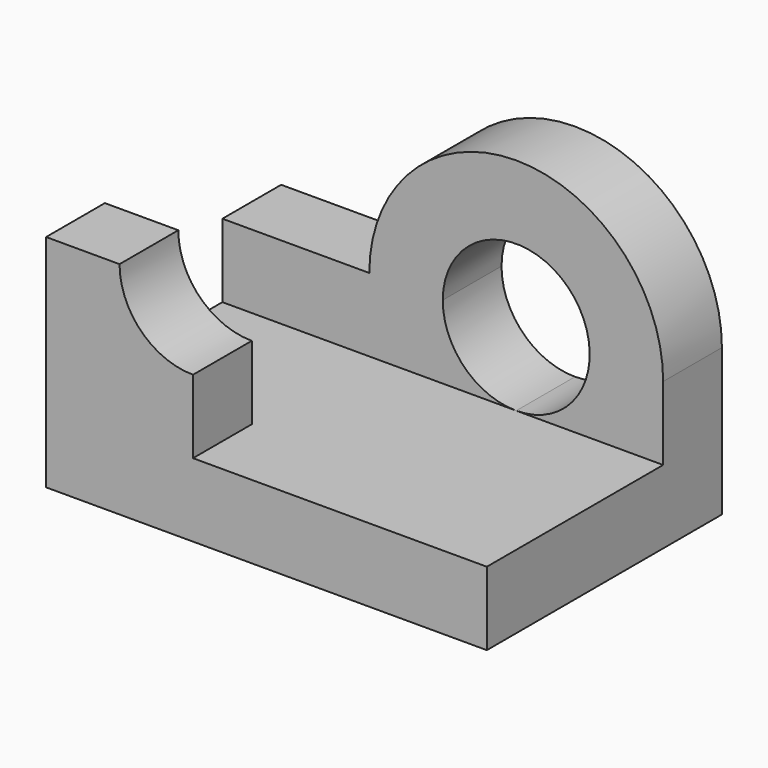
from build123d import *

# Parameters (mm, degrees)
F0_W     = 60
F0_H     = 40
F1_DEPTH = 10
F3_DEPTH = 10
F5_DEPTH = 10
F7_DEPTH = 25


with BuildPart() as f1:
    # F0 (on Top) → F1 (new body)
    with BuildSketch(Plane.XY):
        with Locations((30, 20)):
            Rectangle(F0_W, F0_H)
    extrude(amount=F1_DEPTH)

    # F2 (on face) → F3 (join)
    with BuildSketch(Plane.XZ):
        with BuildLine():
            Line((0, 30), (0, 10))
            Line((0, 10), (20, 10))
            Line((20, 10), (20, 20))
            ThreePointArc((20, 20), (12.928932, 22.928932), (10, 30))
            Line((10, 30), (0, 30))
        make_face()
    extrude(amount=-F3_DEPTH)

    # F4 (on face) → F5 (join)
    with BuildSketch(Plane(origin=(0, 40, 0), x_dir=(-1, 0, 0), z_dir=(0, 1, 0))):
        with BuildLine():
            Line((-60, 10), (0, 10))
            Line((0, 10), (0, 20))
            Line((0, 20), (-20, 20))
            ThreePointArc((-20, 20), (-40, 40), (-60, 20))
            Line((-60, 20), (-60, 10))
        make_face()
    extrude(amount=-F5_DEPTH)

    # F6 (on face) → F7 (cut)
    with BuildSketch(Plane(origin=(0, 40, 0), x_dir=(-1, 0, 0), z_dir=(0, 1, 0))):
        with BuildLine():
            ThreePointArc((-40, 10), (-32.928932, 12.928932), (-30, 20))
            ThreePointArc((-30, 20), (-47.071068, 27.071068), (-40, 10))
        make_face()
    extrude(amount=-F7_DEPTH, mode=Mode.SUBTRACT)


solid = f1.part
